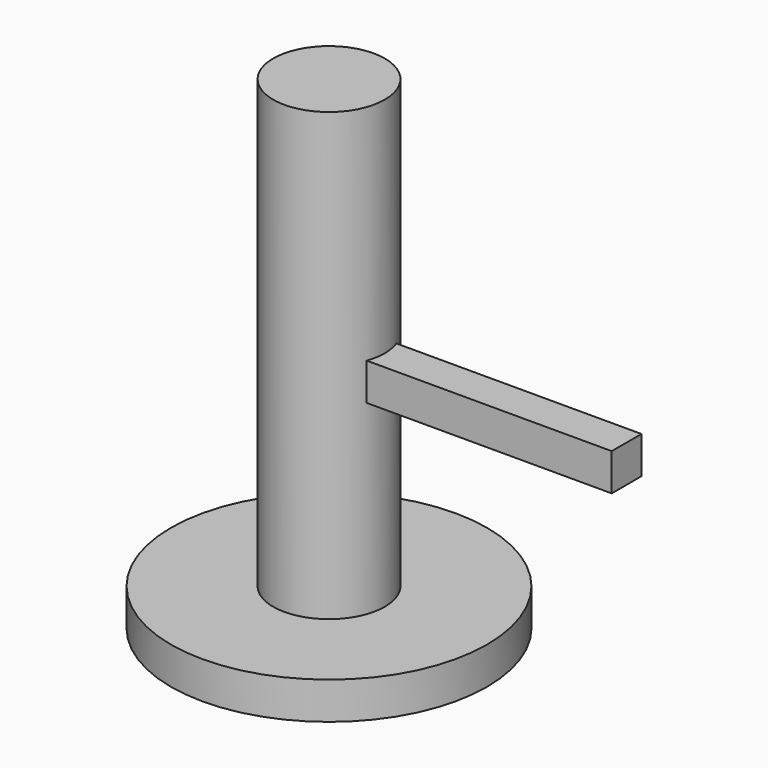
from build123d import *

# Parameters (mm, degrees)
F0_R     = 107.95
F1_DEPTH = 25.4
F2_R     = 38.1
F3_DEPTH = 304.8
F4_W     = 25.4
F4_H     = 25.4
F5_DEPTH = 203.2


with BuildPart() as f1:
    # F0 (on Top) → F1 (new body)
    with BuildSketch(Plane.XY):
        Circle(F0_R)
    extrude(amount=F1_DEPTH)

    # F2 (on face) → F3 (join)
    with BuildSketch(Plane.XY.offset(25.4)):
        Circle(F2_R)
    extrude(amount=F3_DEPTH)

    # F4 (on Right) → F5 (join)
    with BuildSketch(Plane.YZ):
        with Locations((0, 165.1)):
            Rectangle(F4_W, F4_H)
    extrude(amount=F5_DEPTH)


solid = f1.part
